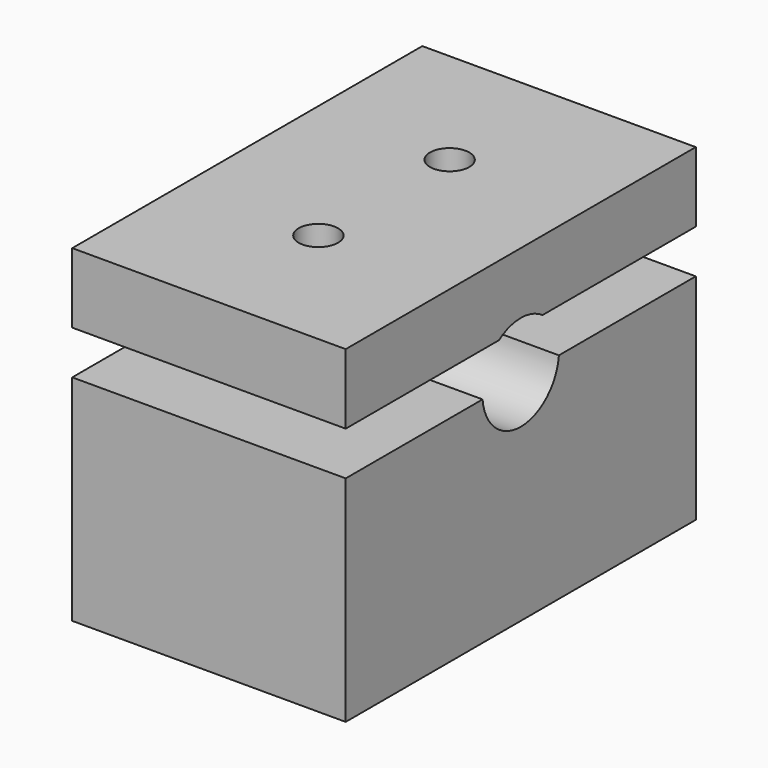
from build123d import *

# Parameters (mm, degrees)
F0_W     = 31.75
F0_H     = 50.8
F1_DEPTH = 38.1
F3_DEPTH = 31.751
F4_R     = 2.286
F5_DEPTH = 8.128
F6_R     = 1.8923
F7_DEPTH = 19.05


with BuildPart() as f1:
    # F0 (on Top) → F1 (new body)
    with BuildSketch(Plane.XY):
        Rectangle(F0_W, F0_H)
    extrude(amount=F1_DEPTH)

    # F2 (on face) → F3 (cut, through all)
    with BuildSketch(Plane.YZ.offset(15.875)):
        with BuildLine():
            Line((-25.4, 24.892), (-5.539355, 24.892))
            ThreePointArc((-5.539355, 24.892), (0, 19.8374), (5.539355, 24.892))
            Line((5.539355, 24.892), (25.4, 24.892))
            Line((25.4, 24.892), (25.4, 29.972))
            Line((25.4, 29.972), (3.168491, 29.972))
            ThreePointArc((3.168491, 29.972), (0, 30.9626), (-3.168491, 29.972))
            Line((-3.168491, 29.972), (-25.4, 29.972))
            Line((-25.4, 29.972), (-25.4, 24.892))
        make_face()
    extrude(amount=-F3_DEPTH, mode=Mode.SUBTRACT)

    # F4 (on face) → F5 (cut, through all)
    with BuildSketch(Plane.XY.offset(38.1)):
        with Locations((0, 9.525)):
            Circle(F4_R)
        with Locations((0, -9.525)):
            Circle(F4_R)
    extrude(amount=-F5_DEPTH, mode=Mode.SUBTRACT)

    # F6 (on face) → F7 (cut)
    with BuildSketch(Plane.XY.offset(24.892)):
        with Locations((0, 9.525)):
            Circle(F6_R)
        with Locations((0, -9.525)):
            Circle(F6_R)
    extrude(amount=-F7_DEPTH, mode=Mode.SUBTRACT)


solid = f1.part
